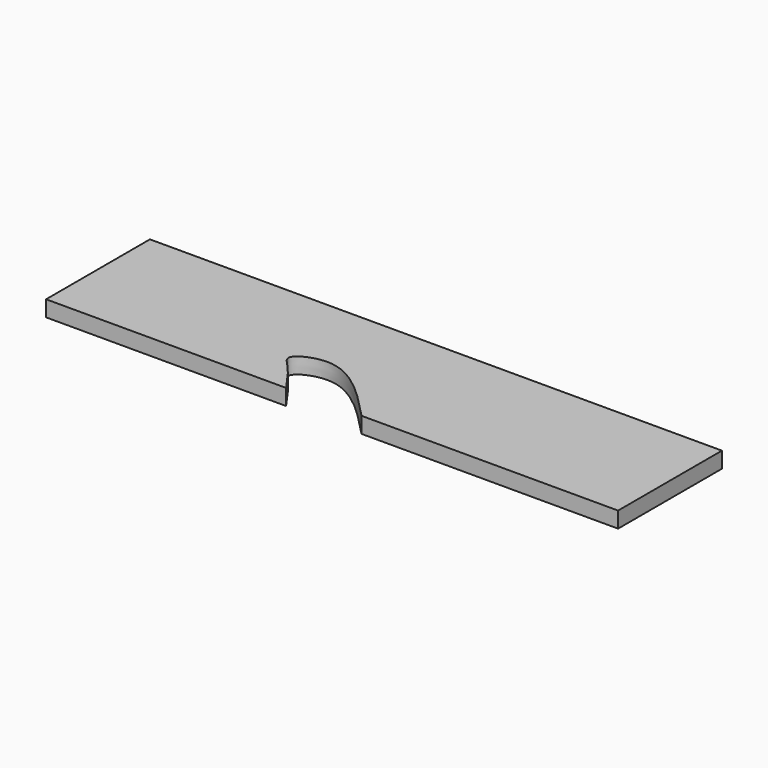
from build123d import *

# Parameters (mm, degrees)
F1_DEPTH = 3.175


with BuildPart() as f1:
    # F0 (on Top) → F1 (new body)
    with BuildSketch(Plane.XY):
        with BuildLine():
            Line((29.9298074096, -11.1292107031), (-84.0694010258, -11.1292107031))
            Line((-84.0694010258, -11.1292107031), (-84.0694010258, -36.9971059263))
            Line((-84.0694010258, -36.9971059263), (-36.243878305, -36.9971059263))
            add(Edge.make_bspline(
                [(-21.2044026703, -36.9971059263), (-26.1243218632, -31.8107182164), (-34.0352553012, -23.4713194687), (-43.6708952236, -28.2444594404), (-40.8197617979, -30.7737982204), (-38.3065521722, -33.97038067), (-36.9137844579, -36.0140994003), (-36.243878305, -36.9971059263)],
                knots=[0, 0, 0, 0, 0.3443986078, 0.5537721974, 0.6791807641, 0.8456894298, 1, 1, 1, 1], degree=3))
            Line((-21.2044026703, -36.9971059263), (29.9298074096, -36.9971059263))
            Line((29.9298074096, -36.9971059263), (29.9298074096, -11.1292107031))
        make_face()
    extrude(amount=F1_DEPTH)


solid = f1.part
